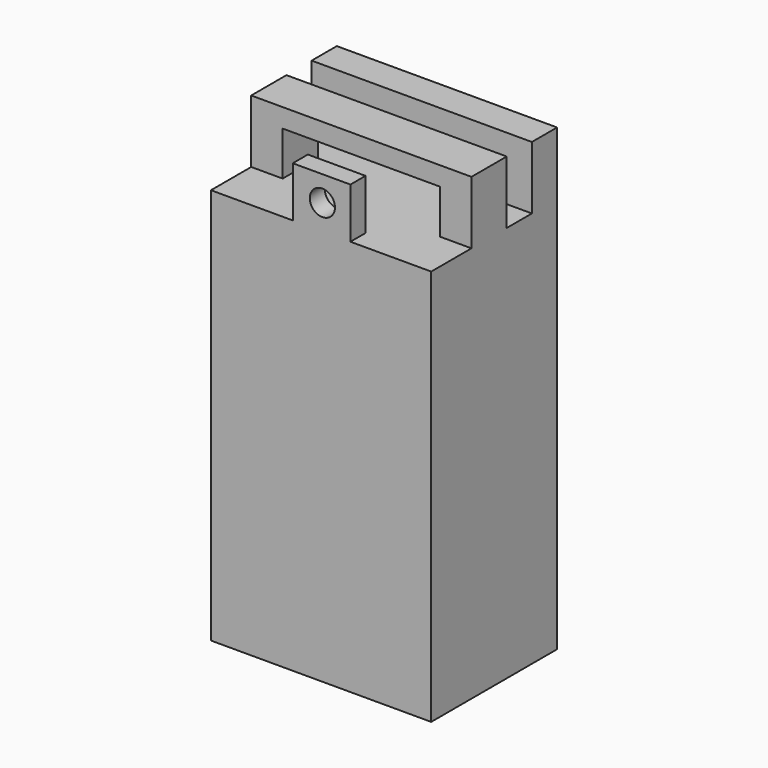
from build123d import *

# Parameters (mm, degrees)
F0_W      = 35
F0_H      = 25
F0_R      = 2.5
F1_DEPTH  = 40
F2_W      = 35
F2_H      = 25
F3_DEPTH  = 23
F4_W      = 35
F4_H      = 5
F5_DEPTH  = 10
F6_W      = 35
F6_H      = 7
F7_DEPTH  = 10
F8_W      = 25
F8_H      = 7
F9_DEPTH  = 7
F10_W     = 9.1652874053
F10_H     = 3
F11_DEPTH = 8
F14_D     = 4
F14_DEPTH = 3.001


with BuildPart() as f1:
    # F0 (on Top) → F1 (new body)
    with BuildSketch(Plane.XY):
        with Locations((-0.2066092566, 0)):
            Rectangle(F0_W, F0_H)
        Circle(F0_R, mode=Mode.SUBTRACT)
    extrude(amount=F1_DEPTH)

    # F2 (on face) → F3 (join)
    with BuildSketch(Plane.XY.offset(40)):
        with Locations((-0.2066092566, 0)):
            Rectangle(F2_W, F2_H)
    extrude(amount=F3_DEPTH)

    # F4 (on face) → F5 (join)
    with BuildSketch(Plane.XY.offset(63)):
        with Locations((-0.2066092566, 10)):
            Rectangle(F4_W, F4_H)
    extrude(amount=F5_DEPTH)

    # F6 (on face) → F7 (join)
    with BuildSketch(Plane.XY.offset(63)):
        with Locations((-0.2066092566, -1)):
            Rectangle(F6_W, F6_H)
    extrude(amount=F7_DEPTH)

    # F8 (on face) → F9 (cut)
    with BuildSketch(Plane.XZ.offset(4.5)):
        with Locations((-0.2066092566, 66.5)):
            Rectangle(F8_W, F8_H)
    extrude(amount=-F9_DEPTH, mode=Mode.SUBTRACT)

    # F10 (on face) → F11 (join)
    with BuildSketch(Plane.XY.offset(63)):
        with Locations((-0.1239655539, -11)):
            Rectangle(F10_W, F10_H)
    extrude(amount=F11_DEPTH)

    # F14 (through all, one way)
    with BuildSketch(Plane(origin=(0, -9.5, 0), x_dir=(-1, 0, 0), z_dir=(0, 1, 0))):
        with Locations((0, 66.9974908233)):
            Circle(F14_D / 2)
    extrude(amount=-F14_DEPTH, mode=Mode.SUBTRACT)


solid = f1.part
